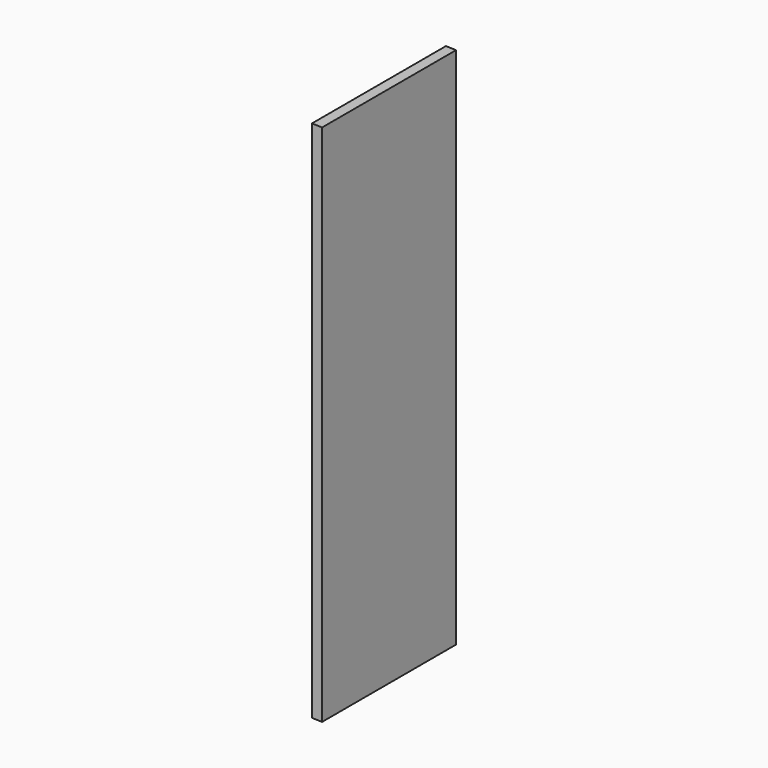
from build123d import *

# Parameters (mm, degrees)
F1_DEPTH = 1000
F2_W     = 6
F2_H     = 980
F3_DEPTH = 6


with BuildPart() as f1:
    # F0 (on Top) → F1 (new body)
    with BuildSketch(Plane.XY):
        Polygon((-13.060008, -187.909791), (-13.060008, 132.090209), (-33.060008, 132.788625), (-33.060008, -187.211375), align=None)
    extrude(amount=F1_DEPTH)

    # F2 (on face) → F3 (cut)
    with BuildSketch(Plane(origin=(-33.060008, 0, 0), x_dir=(0, -1, 0), z_dir=(-1, 0, 0))):
        with Locations((-104.788625, 500)):
            Rectangle(F2_W, F2_H)
    extrude(amount=-F3_DEPTH, mode=Mode.SUBTRACT)


solid = f1.part
